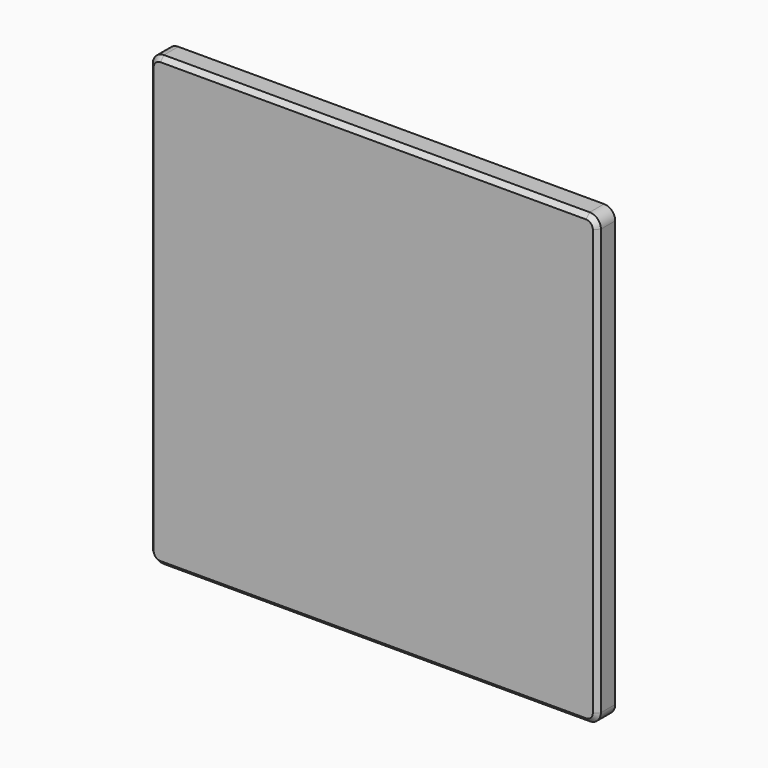
from build123d import *

# Parameters (mm, degrees)
F0_W     = 200
F0_H     = 200
F1_DEPTH = 10
F2_R     = 5
F3_SIZE  = 2


with BuildPart() as f1:
    # F0 (on Front) → F1 (new body)
    with BuildSketch(Plane.XZ):
        Rectangle(F0_W, F0_H)
        Rectangle(F0_W, F0_H)
    extrude(amount=F1_DEPTH)

    # F2
    f2_edges = [f1.edges().sort_by_distance(p)[0] for p in [
        (100, -5, -100),
        (-100, -5, -100),
        (-100, -5, 100),
        (100, -5, 100),
    ]]
    fillet(f2_edges, radius=F2_R)

    # F3
    f3_edges = [f1.edges().sort_by_distance(p)[0] for p in [
        (0, -10, 100),
        (98.535534, -10, 98.535534),
        (-98.535534, -10, 98.535534),
        (100, -10, 0),
        (-100, -10, 0),
        (98.535534, -10, -98.535534),
        (-98.535534, -10, -98.535534),
        (0, -10, -100),
    ]]
    chamfer(f3_edges, length=F3_SIZE)


solid = f1.part
